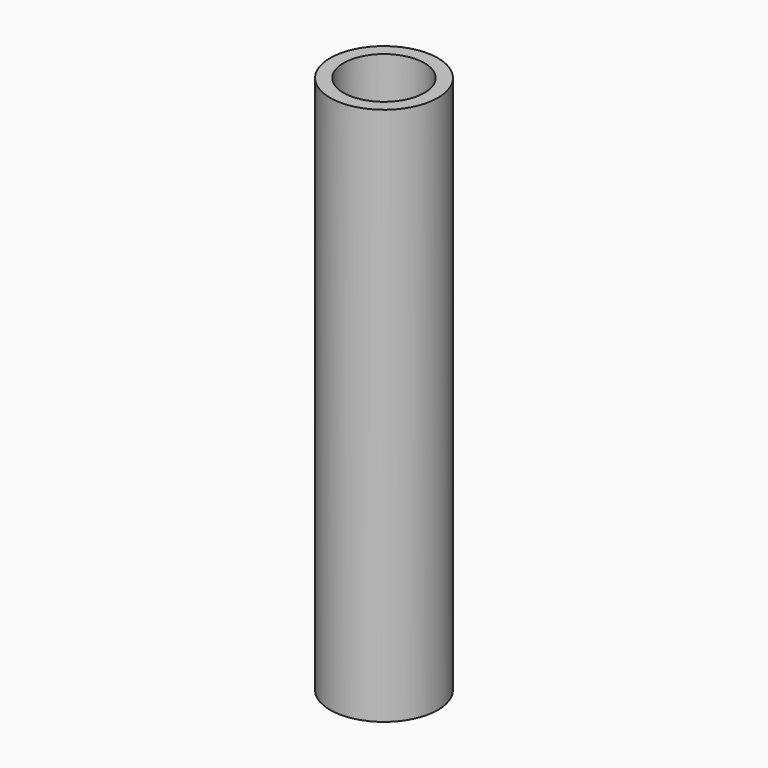
from build123d import *

# Parameters (mm, degrees)
F0_R      = 12.7
F1_DEPTH  = 127
F2_R      = 7.9375
F3_DEPTH  = 88.899746
F6_DEPTH  = 40.64
F8_R      = 9.525
F9_DEPTH  = 15.24
F10_D     = 12.7
F10_DEPTH = 11.43
F10_TIP   = 3.8154649308
F4_R      = 4.7625
F11_DEPTH = 50.8
F12_R     = 6.35
F13_DEPTH = 11.43


with BuildPart() as f1:
    # F0 (on Top) → F1 (new body)
    with BuildSketch(Plane.XY):
        Circle(F0_R)
    extrude(amount=F1_DEPTH)

    # F2 (on face) → F3 (cut)
    with BuildSketch(Plane.XY.offset(127)):
        Circle(F2_R)
    extrude(amount=-F3_DEPTH, mode=Mode.SUBTRACT)

    # F5 (on face) → F6 (cut)
    with BuildSketch(Plane(origin=(0, 0, 0), x_dir=(1, 0, 0), z_dir=(0, 0, -1))):
        with BuildLine():
            Line((6.6901401331, -10.795), (-6.6901401331, -10.795))
            ThreePointArc((-6.6901401331, -10.795), (0, -12.7), (6.6901401331, -10.795))
        make_face()
    extrude(amount=-F6_DEPTH, mode=Mode.SUBTRACT)

    # F8 (on face) → F9 (cut)
    with BuildSketch(Plane.XY.offset(127)):
        Circle(F8_R)
    extrude(amount=-F9_DEPTH, mode=Mode.SUBTRACT)

    # F10
    with Locations(Plane(origin=(0, 10.795, 0), x_dir=(-1, 0, 0), z_dir=(0, 1, 0))):
        with Locations((0, 31.75)):
            Hole(F10_D / 2, depth=F10_DEPTH)
            with Locations((0, 0, -(F10_DEPTH + F10_TIP / 2))):  # 118° drill point
                Cone(0, F10_D / 2, F10_TIP, mode=Mode.SUBTRACT)

    # F4 (on face) → F11 (cut)
    with BuildSketch(Plane(origin=(0, 0, 0), x_dir=(1, 0, 0), z_dir=(0, 0, -1))):
        with Locations((0, 0.1964742664)):
            Circle(F4_R)
    extrude(amount=-F11_DEPTH, mode=Mode.SUBTRACT)

    # F12 (on Top) → F13 (cut)
    with BuildSketch(Plane.XY):
        Circle(F12_R)
    extrude(amount=F13_DEPTH, mode=Mode.SUBTRACT)


solid = f1.part
